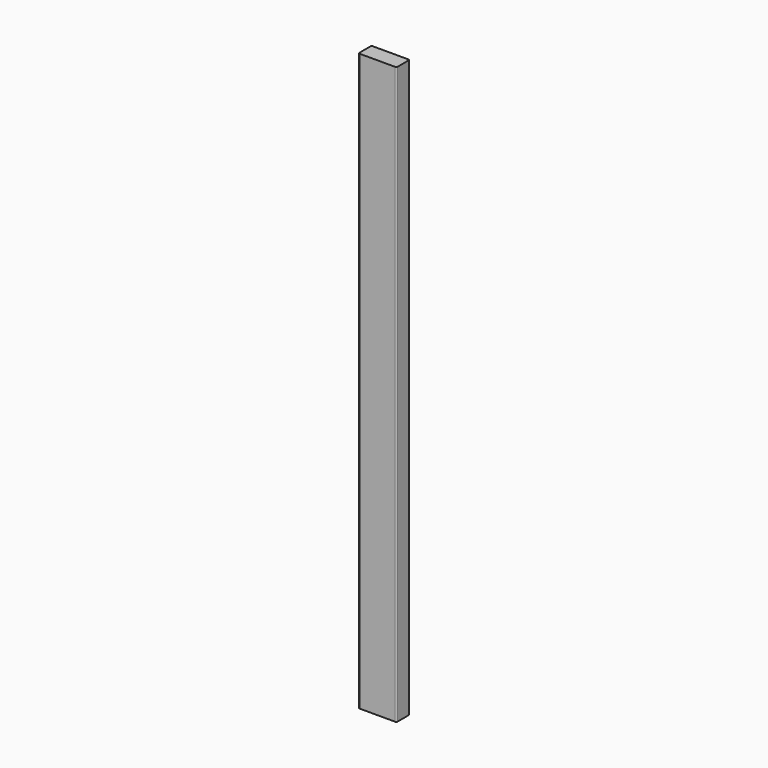
from build123d import *

# Parameters (mm, degrees)
SKETCH_W  = 88.9
SKETCH_H  = 38.1
PAD_DEPTH = 673.1
FILLET_R  = 3.048


with BuildPart() as part:
    # Sketch → Pad (new body, symmetric)
    with BuildSketch(Plane.XY):
        with Locations((-69.85, 44.45)):
            Rectangle(SKETCH_W, SKETCH_H)
    extrude(amount=PAD_DEPTH, both=True)

    # Fillet
    fillet_edges = [part.edges().sort_by_distance(p)[0] for p in [
        (-25.4, 63.5, 0),
        (-114.3, 63.5, 0),
        (-25.4, 25.4, 0),
        (-114.3, 25.4, 0),
    ]]
    fillet(fillet_edges, radius=FILLET_R)


solid = part.part
